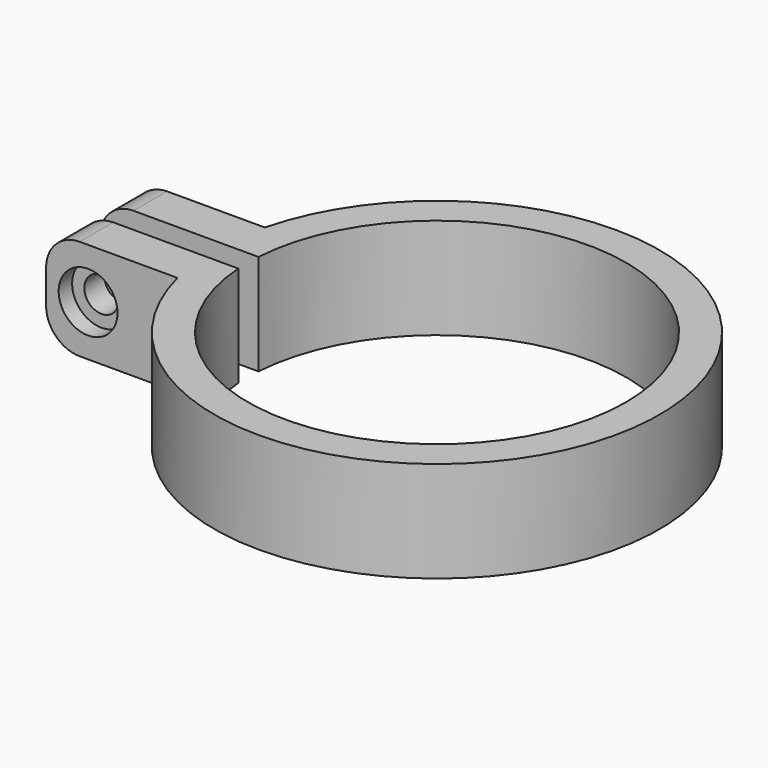
from build123d import *

# Parameters (mm, degrees)
F1_DEPTH = 6
F2_R     = 2.05
F4_DEPTH = 13
F2_R_2   = 3.5
F5_DEPTH = 2
F6_DEPTH = 2
F7_R     = 4


with BuildPart() as f1:
    # F0 (on Top) → F1 (new body, symmetric)
    with BuildSketch(Plane.XY):
        with BuildLine():
            ThreePointArc((-22.449944, 1.5), (22.5, 0), (-22.449944, -1.5))
            Line((-22.449944, -1.5), (-41.327112, -1.5))
            Line((-41.327112, -1.5), (-41.327112, -6.5))
            Line((-41.327112, -6.5), (-25.690465, -6.5))
            ThreePointArc((-25.690465, -6.5), (26.5, 0), (-25.690465, 6.5))
            Line((-25.690465, 6.5), (-41.327112, 6.5))
            Line((-41.327112, 6.5), (-41.327112, 1.5))
            Line((-41.327112, 1.5), (-22.449944, 1.5))
        make_face()
    extrude(amount=F1_DEPTH, both=True)

    # F2 (on face) → F4 (cut, through all)
    with BuildSketch(Plane.XZ.offset(6.5)):
        with Locations((-36.327112, 0)):
            Circle(F2_R)
    extrude(amount=-F4_DEPTH, mode=Mode.SUBTRACT)

    # F2 (on face) → F5 (cut)
    with BuildSketch(Plane.XZ.offset(6.5)):
        with Locations((-36.327112, 0)):
            Circle(F2_R_2)
        with Locations((-36.327112, 0)):
            Circle(F2_R, mode=Mode.SUBTRACT)
    extrude(amount=-F5_DEPTH, mode=Mode.SUBTRACT)

    # F3 (on face) → F6 (cut)
    with BuildSketch(Plane(origin=(0, 6.5, 0), x_dir=(-1, 0, 0), z_dir=(0, 1, 0))):
        Polygon((40.224226, -2.25), (40.224226, 2.25), (36.327112, 4.5), (32.429997, 2.25), (32.429997, -2.25), (36.327112, -4.5), align=None)
    extrude(amount=-F6_DEPTH, mode=Mode.SUBTRACT)

    # F7
    f7_edges = [f1.edges().sort_by_distance(p)[0] for p in [
        (-41.327112, 4, 6),
        (-41.327112, -4, 6),
        (-41.327112, 4, -6),
        (-41.327112, -4, -6),
    ]]
    fillet(f7_edges, radius=F7_R)


solid = f1.part
